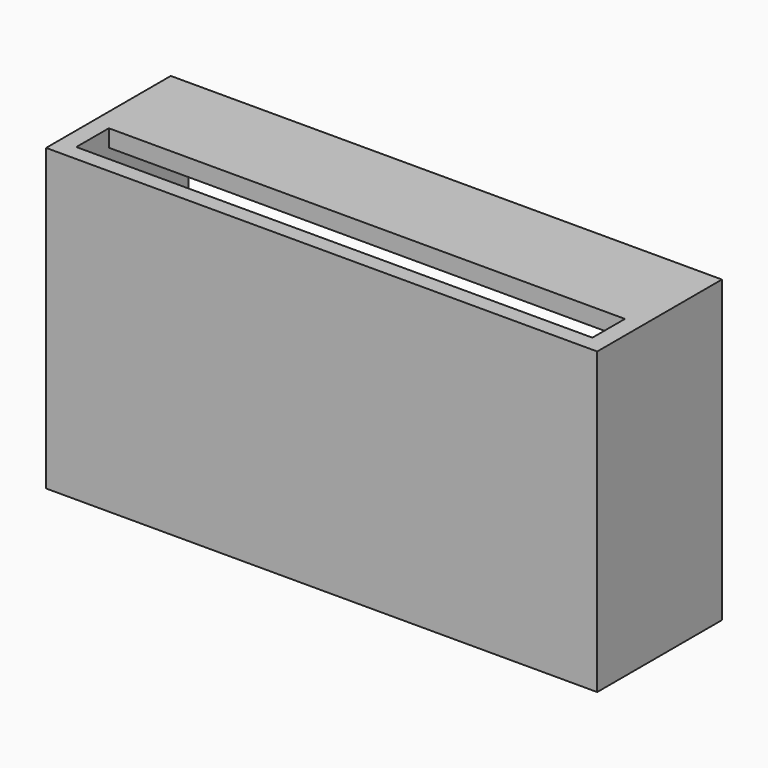
from build123d import *

# Parameters (mm, degrees)
F0_W     = 165
F0_H     = 5.432152
F0_H_2   = 85
F1_DEPTH = 5.08
F2_DEPTH = 13
F3_W     = 165
F3_H     = 5.479902
F4_DEPTH = 31.75
F6_DEPTH = 1.27


with BuildPart() as f1:
    # F0 (on Front) → F1 (new body)
    with BuildSketch(Plane.XZ):
        with Locations((0, 45.216076)):
            Rectangle(F0_W, F0_H)
        Rectangle(F0_W, F0_H_2)
        Polygon((82.5, 47.932152), (82.5, 42.5), (82.5, -42.5), (-82.5, -42.5), (-82.5, 42.5), (-82.5, 47.932152), (-88.101894, 47.932152), (-88.101894, -47.932152), (88.101894, -47.932152), (88.101894, 47.932152), align=None)
    extrude(amount=F1_DEPTH)

    # F0 (on Front) → F2 (join)
    with BuildSketch(Plane.XZ):
        Polygon((82.5, 47.932152), (82.5, 42.5), (82.5, -42.5), (-82.5, -42.5), (-82.5, 42.5), (-82.5, 47.932152), (-88.101894, 47.932152), (-88.101894, -47.932152), (88.101894, -47.932152), (88.101894, 47.932152), align=None)
    extrude(amount=-F2_DEPTH)

    # F3 (on face) → F4 (join)
    with BuildSketch(Plane(origin=(0, 13, 0), x_dir=(-1, 0, 0), z_dir=(0, 1, 0))):
        Polygon((82.5, 47.932152), (82.5, 42.45225), (82.5, -42.45225), (82.5, -42.5), (-82.5, -42.5), (-82.5, -42.45225), (-82.5, 42.45225), (-82.5, 47.932152), (-88.101894, 47.932152), (-88.101894, -47.932152), (88.101894, -47.932152), (88.101894, 47.932152), align=None)
        with Locations((0, 45.192201)):
            Rectangle(F3_W, F3_H)
    extrude(amount=F4_DEPTH)

    # F5 (on face) → F6 (join)
    with BuildSketch(Plane(origin=(82.5, 0, 0), x_dir=(0, -1, 0), z_dir=(-1, 0, 0))):
        Polygon((-13, -30.489394), (-13, 42.45225), (-14.72871, 42.45225), (-14.72871, -42.5), (-13, -42.5), align=None)
    extrude(amount=F6_DEPTH)


solid = f1.part
